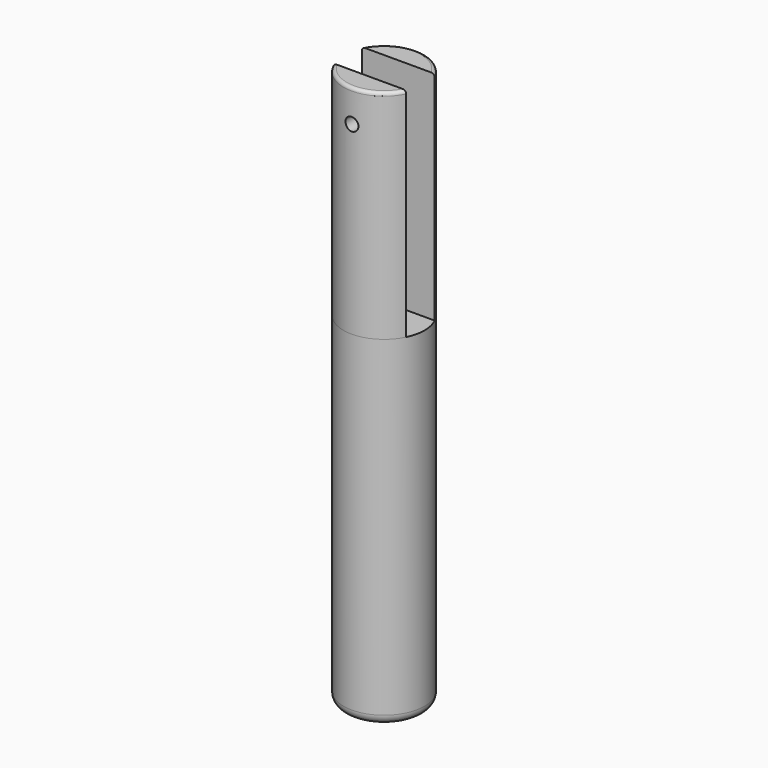
from build123d import *

# Parameters (mm, degrees)
F0_R     = 12.5
F1_DEPTH = 105
F3_DEPTH = 67
F4_R     = 3
F6_D     = 4
F6_DEPTH = 20
F6_TIP   = 1.2017212381
F7_D     = 4
F7_DEPTH = 20
F7_START = 11
F7_TIP   = 1.2017212381
F8_R     = 1


with BuildPart() as f1:
    # F0 (on Top) → F1 (new body)
    with BuildSketch(Plane.XY):
        Circle(F0_R)
    extrude(amount=F1_DEPTH)

    # F2 (on face) → F3 (join)
    with BuildSketch(Plane.XY.offset(105)):
        with BuildLine():
            Line((11.2334422785, -5.4826795069), (-11.2334422785, -5.4826795069))
            ThreePointArc((-11.2334422785, -5.4826795069), (0, -12.5), (11.2334422785, -5.4826795069))
        make_face()
        with BuildLine():
            ThreePointArc((11.2164688996, 5.5173204931), (0, 12.5), (-11.2164688996, 5.5173204931))
            Line((-11.2164688996, 5.5173204931), (11.2164688996, 5.5173204931))
        make_face()
    extrude(amount=F3_DEPTH)

    # F4
    f4_edges = [f1.edges().sort_by_distance(p)[0] for p in [
        (-12.5, 0, 0),
    ]]
    fillet(f4_edges, radius=F4_R)

    # F6 (one way)
    with BuildSketch(Plane.XZ.offset(-5.5173204931)):
        with Locations((0, 162)):
            Circle(F6_D / 2)
    extrude(amount=-F6_DEPTH, mode=Mode.SUBTRACT)
    with Locations(Plane.XZ.offset(-5.5173204931)):
        with Locations((0, 162)):
            with Locations((0, 0, -(F6_DEPTH + F6_TIP / 2))):  # 118° drill point
                Cone(0, F6_D / 2, F6_TIP, mode=Mode.SUBTRACT)

    # F7
    # its depths count from where the whole tool has entered the part; down to there all is cleared
    with Locations(Plane(origin=(0, 5.5173204931, 0), x_dir=(1, 0, 0), z_dir=(0, 1, 0)).offset(-F7_START)):
        with Locations((0, -162)):
            Hole(F7_D / 2, depth=F7_DEPTH)
            with Locations((0, 0, -(F7_DEPTH + F7_TIP / 2))):  # 118° drill point
                Cone(0, F7_D / 2, F7_TIP, mode=Mode.SUBTRACT)

    # F8
    f8_edges = [f1.edges().sort_by_distance(p)[0] for p in [
        (0, 12.5, 172),
        (0, -12.5, 172),
    ]]
    fillet(f8_edges, radius=F8_R)


solid = f1.part
